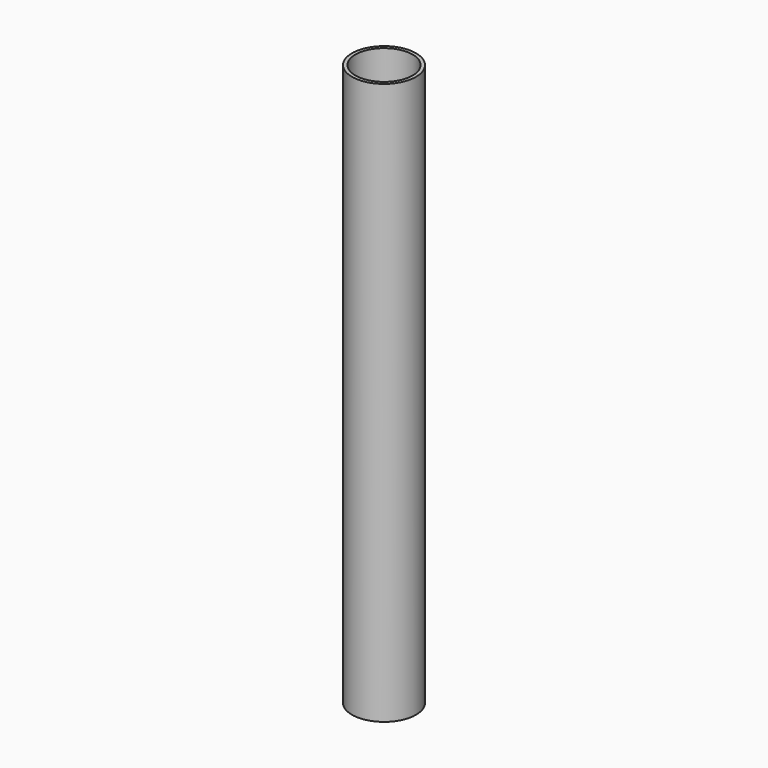
from build123d import *

# Parameters (mm, degrees)
F0_R     = 4.0916314342
F1_DEPTH = 80
F2_T     = 0.5


with BuildPart() as f1:
    # F0 (on Top) → F1 (new body)
    with BuildSketch(Plane.XY):
        with Locations((0, 7.5316131115)):
            Circle(F0_R)
    extrude(amount=-F1_DEPTH)

    # F2
    f2_openings = [f1.faces().sort_by_distance(p)[0] for p in [
        (0, 7.531613, 0),
    ]]
    offset(amount=F2_T, openings=f2_openings, kind=Kind.INTERSECTION)


solid = f1.part
